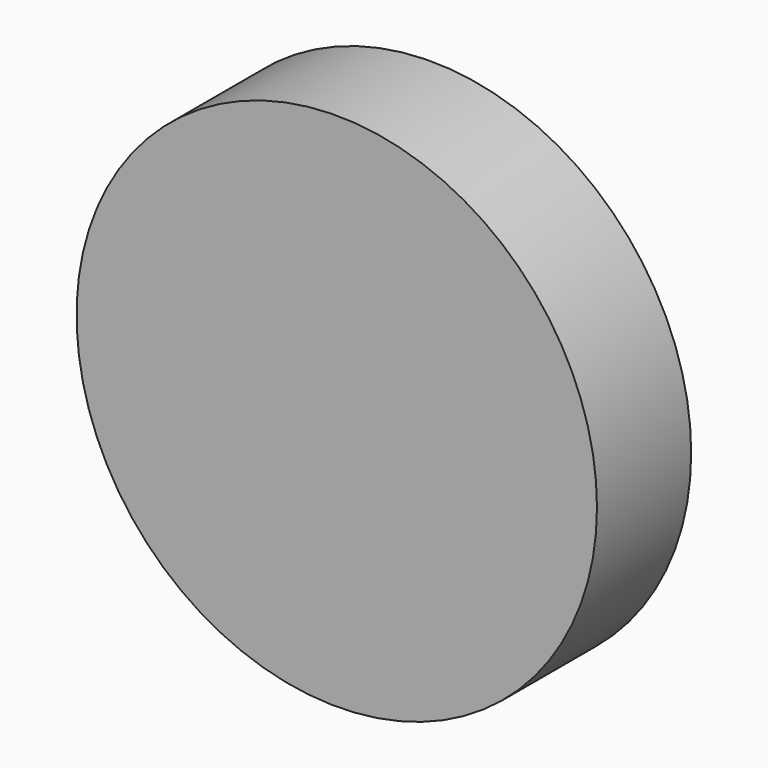
from build123d import *

# Parameters (mm, degrees)
F0_R     = 14.032758
F1_DEPTH = 6.35


with BuildPart() as f1:
    # F0 (on Front) → F1 (new body)
    with BuildSketch(Plane.XZ):
        with Locations((-29.49734, -22.148177)):
            Circle(F0_R)
    extrude(amount=F1_DEPTH)


with BuildPart() as f2_1:
    # F2: copy of F1
    add(f1.part)


solid = Compound([f1.part, f2_1.part])
